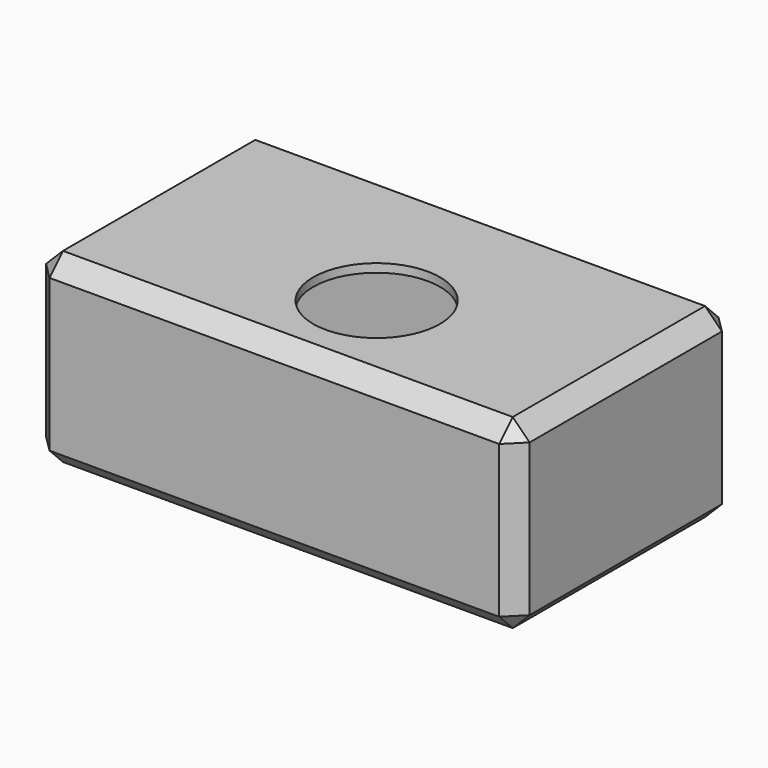
from build123d import *

# Parameters (mm, degrees)
F0_W     = 145.373996
F0_H     = 82.43306
F1_DEPTH = 55.88
F2_SIZE  = 5.08
F3_T     = -2.54
F5_D     = 38.1


with BuildPart() as f1:
    # F0 (on Top) → F1 (new body)
    with BuildSketch(Plane.XY):
        with Locations((-31.786533, -41.21653)):
            Rectangle(F0_W, F0_H)
    extrude(amount=F1_DEPTH)

    # F2
    f2_edges = [f1.edges().sort_by_distance(p)[0] for p in [
        (-31.786533, -82.43306, 55.88),
        (40.900465, -41.21653, 55.88),
        (-31.786533, 0, 55.88),
        (-104.473531, -41.21653, 55.88),
        (-104.473531, -82.43306, 27.94),
        (40.900465, -82.43306, 27.94),
        (-31.786533, -82.43306, 0),
        (40.900465, 0, 27.94),
        (40.900465, -41.21653, 0),
        (-104.473531, 0, 27.94),
        (-104.473531, -41.21653, 0),
        (-31.786533, 0, 0),
    ]]
    chamfer(f2_edges, length=F2_SIZE)

    # F3
    f3_openings = [f1.faces().sort_by_distance(p)[0] for p in [
        (-31.786533, -41.21653, 0),
    ]]
    offset(amount=F3_T, openings=f3_openings)

    # F5 (through all)
    with Locations(Plane(origin=(0, 0, 53.34), x_dir=(1, 0, 0), z_dir=(0, 0, -1))):
        with Locations((-26.097942, 51.094607)):
            Hole(F5_D / 2)


solid = f1.part
